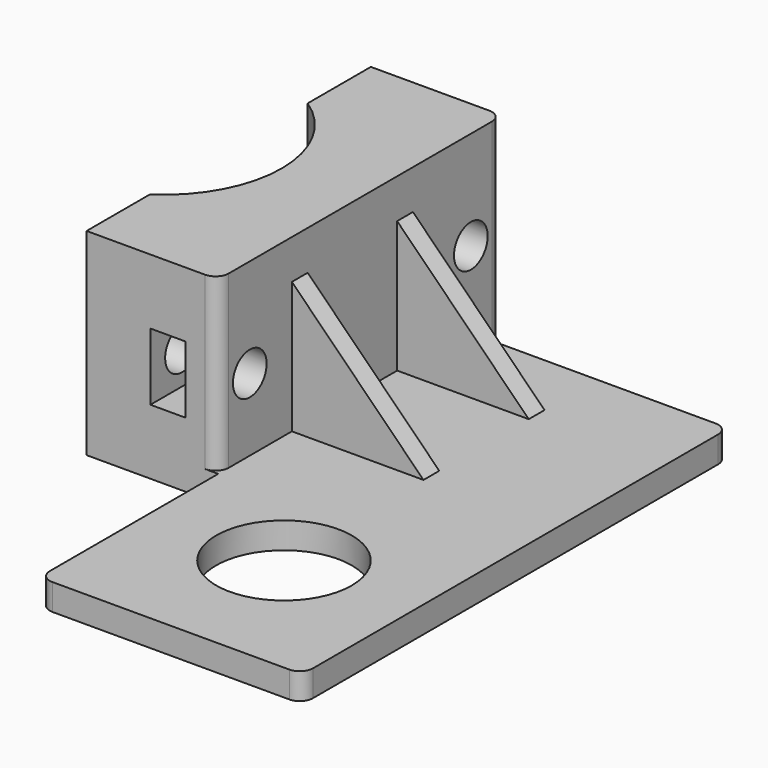
from build123d import *

# Parameters (mm, degrees)
CYLINDER_R               = 3.2
CYLINDER_DEPTH           = 30
EXTRUDE004_DEPTH         = 5.3
CLONE002_PLACEMENT_ANGLE = 180
EXTRUDE002_DEPTH         = 30
EXTRUDE003_DEPTH         = 3
SKETCH_R                 = 10.3
EXTRUDE_DEPTH            = 4
FILLET_R                 = 2


with BuildPart() as bohrung:
    # Cylinder → Cylinder (new body)
    with BuildSketch(Plane(origin=(0, -21, 15), x_dir=(0, 0, 1), z_dir=(-1, 0, 0))):
        Circle(CYLINDER_R)
    extrude(amount=CYLINDER_DEPTH)


with BuildPart() as bohrung001:
    # Clone base: copy of Bohrung
    add(bohrung.part)


with BuildPart() as bohrung001_1:
    # Clone placement: moved
    add(bohrung001.part.moved(Location((0, 42, 0))))


with BuildPart() as obj1:
    # Sketch004 → Extrude004 (new body)
    with BuildSketch(Plane(origin=(0, 0, 0), x_dir=(0, -1, 0), z_dir=(-1, 0, 0))):
        Polygon((15.5, 15), (18.444486, 20.1), (30.444486, 20.1), (30.444486, 9.9), (18.444486, 9.9), align=None)
    extrude(amount=EXTRUDE004_DEPTH)


with BuildPart() as obj1_1:
    # Extrude004 placement: moved
    add(obj1.part.moved(Location((-5, 0, 0))))


with BuildPart() as obj2:
    # Clone002 base: copy of obj1
    add(obj1_1.part)


with BuildPart() as obj2_1:
    # Clone002 placement: moved
    add(obj2.part.moved(Location((0, 0, 30))).rotate(Axis((0, 0, 30), (1, 0, 0)), CLONE002_PLACEMENT_ANGLE))


with BuildPart() as obj3:
    # Fusion base: copy of Bohrung
    add(bohrung.part)

    # Fusion: union Bohrung001, obj2, obj1
    add(bohrung001_1.part)
    add(obj2_1.part)
    add(obj1_1.part)


with BuildPart() as obj4:
    # Sketch002 → Extrude002 (new body)
    with BuildSketch(Plane.XY):
        with BuildLine():
            Line((-20, 27), (0, 27))
            Line((0, 27), (0, -27))
            Line((0, -27), (-20, -27))
            Line((-20, -27), (-20, -15))
            ThreePointArc((-20, -15), (-11.949874, 0), (-20, 15))
            Line((-20, 15), (-20, 27))
        make_face()
    extrude(amount=EXTRUDE002_DEPTH)


with BuildPart() as winkel:
    # Sketch003 → Extrude003 (new body)
    with BuildSketch(Plane.XZ):
        Polygon((0, 24), (20, 4), (0, 4), align=None)
    extrude(amount=EXTRUDE003_DEPTH)


with BuildPart() as winkel_1:
    # Extrude003 placement: moved
    add(winkel.part.moved(Location((0, -10, 0))))


with BuildPart() as winkel001:
    # Clone001 base: copy of Winkel
    add(winkel_1.part)


with BuildPart() as winkel001_1:
    # Clone001 placement: moved
    add(winkel001.part.moved(Location((0, 20, 0))))


with BuildPart() as obj5:
    # Sketch → Extrude (new body)
    with BuildSketch(Plane.XY):
        with BuildLine():
            Line((38, 0), (2, 0))
            ThreePointArc((0, 2), (0.585786, 0.585786), (2, 0))
            Line((0, 2), (0, 81))
            Line((0, 81), (38, 81))
            ThreePointArc((40, 79), (39.414214, 80.414214), (38, 81))
            Line((40, 79), (40, 2))
            ThreePointArc((38, 0), (39.414214, 0.585786), (40, 2))
        make_face()
        with Locations((20, 21.5)):
            Circle(SKETCH_R, mode=Mode.SUBTRACT)
    extrude(amount=EXTRUDE_DEPTH)


with BuildPart() as obj5_1:
    # Extrude placement: moved
    add(obj5.part.moved(Location((0, -61, 0))))

    # Fusion001: union obj4, Winkel, Winkel001
    add(obj4.part)
    add(winkel_1.part)
    add(winkel001_1.part)

    # Fillet
    fillet_edges = [obj5_1.edges().sort_by_distance(p)[0] for p in [
        (0, -27, 17),
        (0, 27, 15),
    ]]
    fillet(fillet_edges, radius=FILLET_R)

    # Cut: cut obj3
    add(obj3.part, mode=Mode.SUBTRACT)


solid = obj5_1.part
